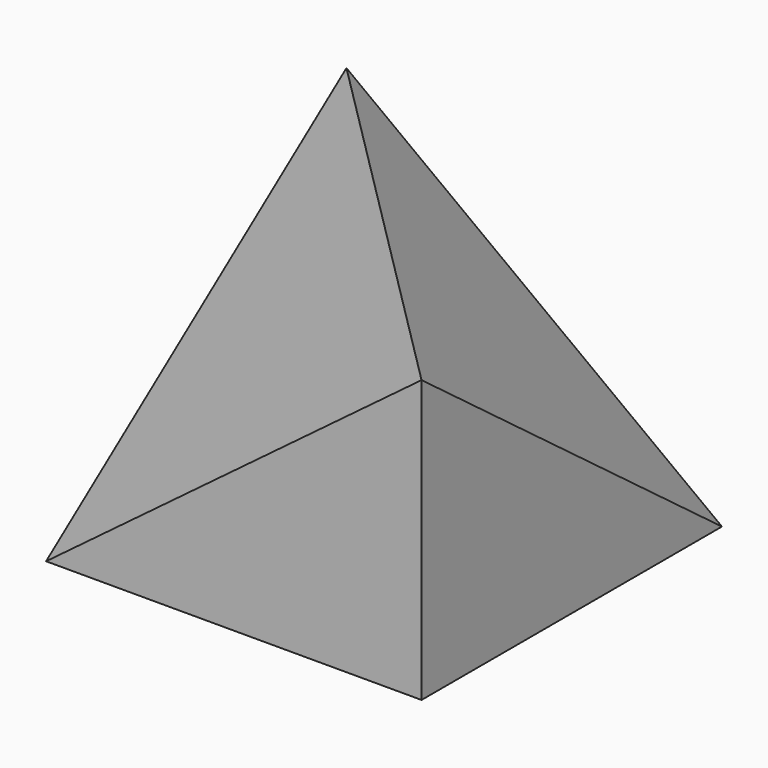
from build123d import *

# Parameters (mm, degrees)
F0_W     = 4
F0_H     = 4
F1_DEPTH = 3
F3_W     = 14.3339713104
F3_H     = 10.6724398211
F4_DEPTH = 25
F6_W     = 17.2433317639
F6_H     = 22.1506999806
F7_DEPTH = 25


with BuildPart() as f1:
    # F0 (on Top) → F1 (new body)
    with BuildSketch(Plane.XY):
        with Locations((2, 2)):
            Rectangle(F0_W, F0_H)
    extrude(amount=F1_DEPTH)

    # F3 (on 3pt) → F4 (cut)
    with BuildSketch(Plane(origin=(0, 0, 0), x_dir=(0.8574929257, -0.3086974533, 0.4115966043), z_dir=(-0.5144957554, -0.5144957554, 0.6859943406))):
        with Locations((3.116970649, 0.8026915602)):
            Rectangle(F3_W, F3_H)
    extrude(amount=F4_DEPTH, mode=Mode.SUBTRACT)

    # F6 (on 3pt) → F7 (cut)
    with BuildSketch(Plane(origin=(2.1176470588, 2.1176470588, 2.8235294118), x_dir=(0.8574929257, -0.3086974533, -0.4115966043), z_dir=(0.5144957554, 0.5144957554, 0.6859943406))):
        with Locations((1.9858654123, 2.0885900594)):
            Rectangle(F6_W, F6_H)
    extrude(amount=F7_DEPTH, mode=Mode.SUBTRACT)


solid = f1.part
